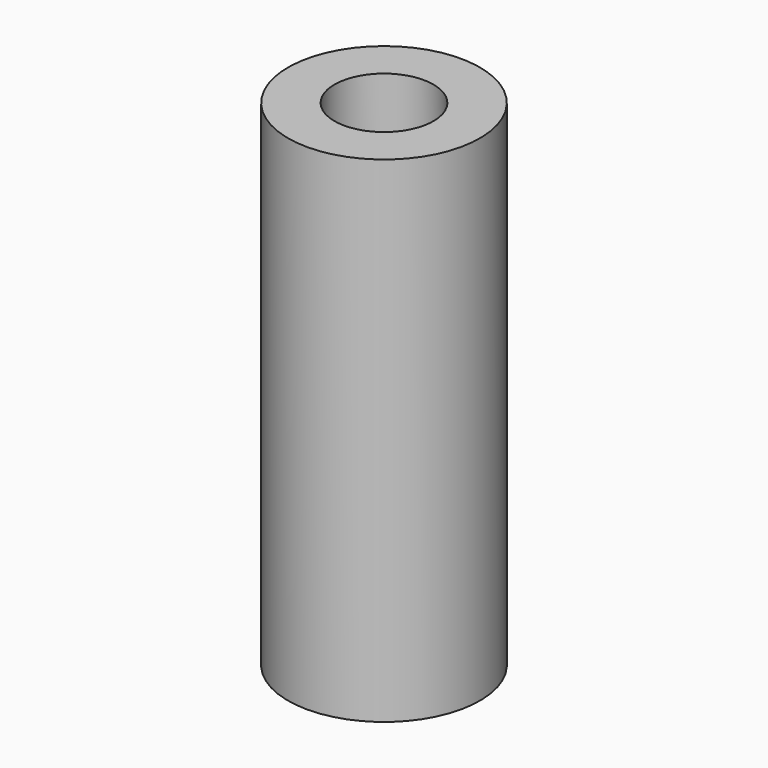
from build123d import *

# Parameters (mm, degrees)
F0_W = 1
F0_H = 2


with BuildPart() as f1:
    # F0 (on Right) → F1 (revolve)
    with BuildSketch(Plane.YZ):
        with Locations((-3.5, 34)):
            Rectangle(F0_W, F0_H)
        Polygon((-7.75, 0), (-4, 0), (-4, 33), (-4, 35), (-4, 40), (-7.75, 40), align=None)
    revolve(axis=Axis((0, 0, 20), (0, 0, 1)))


solid = f1.part
